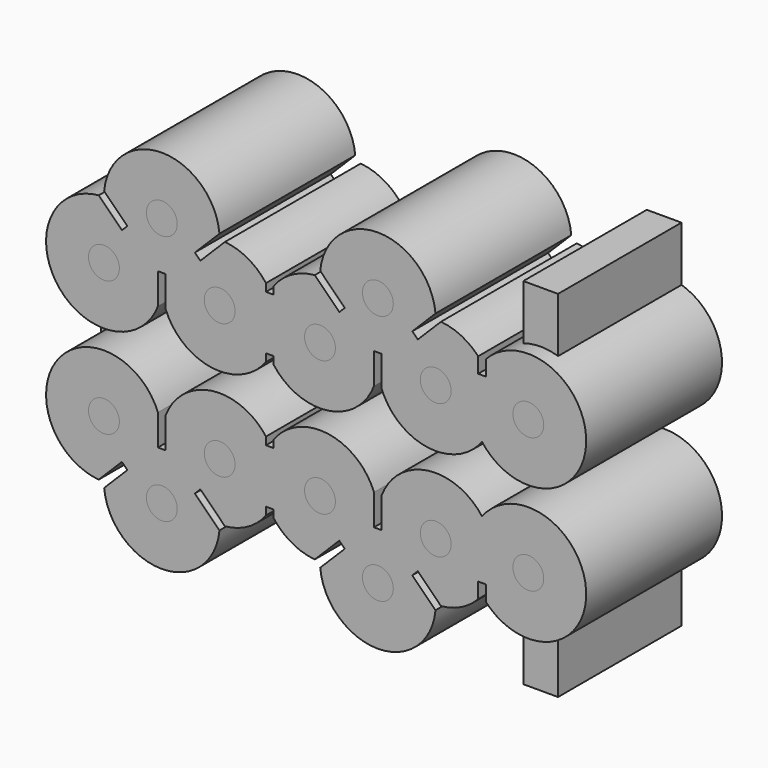
from build123d import *

# Parameters (mm, degrees)
F2_DEPTH  = 22
F3_R      = 2
F4_DEPTH  = 21
F5_R      = 4
F6_DEPTH  = 1
F7_R      = 2
F8_DEPTH  = 21
F9_R      = 4
F10_DEPTH = 1
F11_R     = 2
F12_DEPTH = 21
F13_R     = 2
F14_DEPTH = 21
F15_R     = 4
F16_DEPTH = 1
F17_R     = 2
F18_DEPTH = 21
F19_R     = 4
F20_DEPTH = 1
F21_R     = 2
F22_DEPTH = 21
F23_R     = 4
F23_R_2   = 2
F24_DEPTH = 1
F25_R     = 2
F26_DEPTH = 21
F27_R     = 4
F27_R_2   = 2
F28_DEPTH = 1
F29_R     = 2
F30_DEPTH = 21
F31_R     = 4
F31_R_2   = 2
F32_DEPTH = 1
F33_R     = 2
F34_DEPTH = 20
F35_R     = 2
F36_DEPTH = 20
F37_R     = 2
F38_DEPTH = 20
F39_DEPTH = 20
F40_DEPTH = 20
F41_DEPTH = 20
F42_DEPTH = 20
F43_R     = 4
F44_DEPTH = 1
F45_R     = 4
F45_R_2   = 2
F46_DEPTH = 1
F47_R     = 4
F47_R_2   = 2
F48_DEPTH = 1
F49_R     = 4
F49_R_2   = 2
F50_DEPTH = 1
F51_R     = 4
F51_R_2   = 2
F52_DEPTH = 1
F53_R     = 4
F53_R_2   = 2
F54_DEPTH = 1
F55_R     = 4
F56_DEPTH = 1
F57_W     = 5
F57_H     = 10
F58_DEPTH = 15
F59_W     = 4.5
F59_H     = 8
F60_DEPTH = 20


with BuildPart() as f2:
    # F1 (on face) → F2 (new body)
    with BuildSketch(Plane.XZ):
        with BuildLine():
            Line((13.035779, -13.921328), (10.030575, -16.926531))
            ThreePointArc((10.030575, -16.926531), (17.5, -23.75), (24.969425, -16.926531))
            Line((24.969425, -16.926531), (21.787444, -13.744551))
            Line((21.787444, -13.744551), (22.494551, -13.037444))
            Line((22.494551, -13.037444), (25.676531, -16.219425))
            ThreePointArc((25.676531, -16.219425), (28.653545, -15.299932), (31, -13.25))
            Line((31, -13.25), (31, -12.25))
            Line((31, -12.25), (32, -12.25))
            Line((32, -12.25), (32, -13.25))
            ThreePointArc((32, -13.25), (34.346455, -15.299932), (37.323469, -16.219425))
            Line((37.323469, -16.219425), (40.505449, -13.037444))
            Line((40.505449, -13.037444), (41.212556, -13.744551))
            Line((41.212556, -13.744551), (38.030575, -16.926531))
            ThreePointArc((38.030575, -16.926531), (45.5, -23.75), (52.969425, -16.926531))
            Line((52.969425, -16.926531), (49.964221, -13.921328))
            Line((49.964221, -13.921328), (50.671328, -13.214221))
            Line((50.671328, -13.214221), (53.676531, -16.219425))
            ThreePointArc((53.676531, -16.219425), (56.307883, -15.481115), (58.5, -13.84902))
            Line((58.5, -13.84902), (58.5, -11.84902))
            Line((58.5, -11.84902), (59.5, -11.84902))
            Line((59.5, -11.84902), (59.5, -13.84902))
            ThreePointArc((59.5, -13.84902), (72.489846, -8.359864), (59, -4.25))
            ThreePointArc((59, -4.25), (51.967193, -1.321453), (46, -6.057418))
            Line((46, -6.057418), (46, -10.057418))
            Line((46, -10.057418), (45, -10.057418))
            Line((45, -10.057418), (45, -6.057418))
            ThreePointArc((45, -6.057418), (39.032807, -1.321453), (32, -4.25))
            Line((32, -4.25), (32, -5.25))
            Line((32, -5.25), (31, -5.25))
            Line((31, -5.25), (31, -4.25))
            ThreePointArc((31, -4.25), (23.967193, -1.321453), (18, -6.057418))
            Line((18, -6.057418), (18, -10.057418))
            Line((18, -10.057418), (17, -10.057418))
            Line((17, -10.057418), (17, -6.057418))
            ThreePointArc((17, -6.057418), (4.01559, -4.229288), (9.323469, -16.219425))
            Line((9.323469, -16.219425), (12.328672, -13.214221))
            Line((12.328672, -13.214221), (13.035779, -13.921328))
        make_face()
        with BuildLine():
            Line((32, 12.25), (31, 12.25))
            Line((31, 12.25), (31, 13.25))
            ThreePointArc((31, 13.25), (28.653545, 15.299932), (25.676531, 16.219425))
            Line((25.676531, 16.219425), (22.494551, 13.037444))
            Line((22.494551, 13.037444), (21.787444, 13.744551))
            Line((21.787444, 13.744551), (24.969425, 16.926531))
            ThreePointArc((24.969425, 16.926531), (17.5, 23.75), (10.030575, 16.926531))
            Line((10.030575, 16.926531), (13.035779, 13.921328))
            Line((13.035779, 13.921328), (12.328672, 13.214221))
            Line((12.328672, 13.214221), (9.323469, 16.219425))
            ThreePointArc((9.323469, 16.219425), (4.01559, 4.229288), (17, 6.057418))
            Line((17, 6.057418), (17, 10.057418))
            Line((17, 10.057418), (18, 10.057418))
            Line((18, 10.057418), (18, 6.057418))
            ThreePointArc((18, 6.057418), (23.967193, 1.321453), (31, 4.25))
            Line((31, 4.25), (31, 5.25))
            Line((31, 5.25), (32, 5.25))
            Line((32, 5.25), (32, 4.25))
            ThreePointArc((32, 4.25), (39.032807, 1.321453), (45, 6.057418))
            Line((45, 6.057418), (45, 10.057418))
            Line((45, 10.057418), (46, 10.057418))
            Line((46, 10.057418), (46, 6.057418))
            ThreePointArc((46, 6.057418), (51.967193, 1.321453), (59, 4.25))
            ThreePointArc((59, 4.25), (72.489846, 8.359864), (59.5, 13.84902))
            Line((59.5, 13.84902), (59.5, 11.84902))
            Line((59.5, 11.84902), (58.5, 11.84902))
            Line((58.5, 11.84902), (58.5, 13.84902))
            ThreePointArc((58.5, 13.84902), (56.307883, 15.481115), (53.676531, 16.219425))
            Line((53.676531, 16.219425), (50.671328, 13.214221))
            Line((50.671328, 13.214221), (49.964221, 13.921328))
            Line((49.964221, 13.921328), (52.969425, 16.926531))
            ThreePointArc((52.969425, 16.926531), (45.5, 23.75), (38.030575, 16.926531))
            Line((38.030575, 16.926531), (41.212556, 13.744551))
            Line((41.212556, 13.744551), (40.505449, 13.037444))
            Line((40.505449, 13.037444), (37.323469, 16.219425))
            ThreePointArc((37.323469, 16.219425), (34.346455, 15.299932), (32, 13.25))
            Line((32, 13.25), (32, 12.25))
        make_face()
    extrude(amount=F2_DEPTH)

    # F11 (on face) → F12 (join)
    with BuildSketch(Plane.XZ.offset(22)):
        with Locations((25, -8.75)):
            Circle(F11_R)
    extrude(amount=-F12_DEPTH)


with BuildPart() as f4:
    # F3 (on face) → F4 (new body)
    with BuildSketch(Plane.XZ.offset(22)):
        with Locations((10, -8.75)):
            Circle(F3_R)
    extrude(amount=-F4_DEPTH)

    # F5 (on face) → F6 (join)
    with BuildSketch(Plane(origin=(0, -1, 0), x_dir=(-1, 0, 0), z_dir=(0, 1, 0))):
        with Locations((-10, -8.75)):
            Circle(F5_R)
    extrude(amount=-F6_DEPTH)


with BuildPart() as f8:
    # F7 (on face) → F8 (new body)
    with BuildSketch(Plane.XZ.offset(22)):
        with Locations((17.5, -16.25)):
            Circle(F7_R)
    extrude(amount=-F8_DEPTH)

    # F9 (on face) → F10 (join)
    with BuildSketch(Plane(origin=(0, -1, 0), x_dir=(-1, 0, 0), z_dir=(0, 1, 0))):
        with Locations((-17.5, -16.25)):
            Circle(F9_R)
    extrude(amount=-F10_DEPTH)


with BuildPart() as f14:
    # F13 (on face) → F14 (new body)
    with BuildSketch(Plane.XZ.offset(22)):
        with Locations((25, -8.75)):
            Circle(F13_R)
    extrude(amount=-F14_DEPTH)

    # F15 (on face) → F16 (join)
    with BuildSketch(Plane(origin=(0, -1, 0), x_dir=(-1, 0, 0), z_dir=(0, 1, 0))):
        with Locations((-25, -8.75)):
            Circle(F15_R)
    extrude(amount=-F16_DEPTH)


with BuildPart() as f18:
    # F17 (on face) → F18 (new body)
    with BuildSketch(Plane.XZ.offset(22)):
        with Locations((38, -8.75)):
            Circle(F17_R)
    extrude(amount=-F18_DEPTH)

    # F19 (on face) → F20 (join)
    with BuildSketch(Plane(origin=(0, -1, 0), x_dir=(-1, 0, 0), z_dir=(0, 1, 0))):
        with Locations((-38, -8.75)):
            Circle(F19_R)
    extrude(amount=-F20_DEPTH)


with BuildPart() as f22:
    # F21 (on face) → F22 (new body)
    with BuildSketch(Plane.XZ.offset(22)):
        with Locations((45.5, -16.25)):
            Circle(F21_R)
    extrude(amount=-F22_DEPTH)

    # F23 (on face) → F24 (join)
    with BuildSketch(Plane(origin=(0, -1, 0), x_dir=(-1, 0, 0), z_dir=(0, 1, 0))):
        with Locations((-45.5, -16.25)):
            Circle(F23_R)
        with Locations((-45.5, -16.25)):
            Circle(F23_R_2, mode=Mode.SUBTRACT)
    extrude(amount=-F24_DEPTH)


with BuildPart() as f26:
    # F25 (on face) → F26 (new body)
    with BuildSketch(Plane.XZ.offset(22)):
        with Locations((53, -8.75)):
            Circle(F25_R)
    extrude(amount=-F26_DEPTH)

    # F27 (on face) → F28 (join)
    with BuildSketch(Plane(origin=(0, -1, 0), x_dir=(-1, 0, 0), z_dir=(0, 1, 0))):
        with Locations((-53, -8.75)):
            Circle(F27_R)
        with Locations((-53, -8.75)):
            Circle(F27_R_2, mode=Mode.SUBTRACT)
    extrude(amount=-F28_DEPTH)


with BuildPart() as f30:
    # F29 (on face) → F30 (new body)
    with BuildSketch(Plane.XZ.offset(22)):
        with Locations((65, -8.75)):
            Circle(F29_R)
    extrude(amount=-F30_DEPTH)

    # F31 (on face) → F32 (join)
    with BuildSketch(Plane(origin=(0, -1, 0), x_dir=(-1, 0, 0), z_dir=(0, 1, 0))):
        with Locations((-65, -8.75)):
            Circle(F31_R)
        with Locations((-65, -8.75)):
            Circle(F31_R_2, mode=Mode.SUBTRACT)
    extrude(amount=-F32_DEPTH)


with BuildPart() as f34:
    # F33 (on face) → F34 (new body)
    with BuildSketch(Plane.XZ.offset(22)):
        with Locations((10, 8.75)):
            Circle(F33_R)
    extrude(amount=-F34_DEPTH)

    # F43 (on face) → F44 (join)
    with BuildSketch(Plane(origin=(0, -2, 0), x_dir=(-1, 0, 0), z_dir=(0, 1, 0))):
        with Locations((-10, 8.75)):
            Circle(F43_R)
    extrude(amount=-F44_DEPTH)


with BuildPart() as f36:
    # F35 (on face) → F36 (new body)
    with BuildSketch(Plane.XZ.offset(22)):
        with Locations((17.5, 16.25)):
            Circle(F35_R)
    extrude(amount=-F36_DEPTH)

    # F45 (on face) → F46 (join)
    with BuildSketch(Plane(origin=(0, -2, 0), x_dir=(-1, 0, 0), z_dir=(0, 1, 0))):
        with Locations((-17.5, 16.25)):
            Circle(F45_R)
        with Locations((-17.5, 16.25)):
            Circle(F45_R_2, mode=Mode.SUBTRACT)
    extrude(amount=-F46_DEPTH)


with BuildPart() as f38:
    # F37 (on face) → F38 (new body)
    with BuildSketch(Plane.XZ.offset(22)):
        with Locations((25, 8.75)):
            Circle(F37_R)
    extrude(amount=-F38_DEPTH)

    # F47 (on face) → F48 (join)
    with BuildSketch(Plane(origin=(0, -2, 0), x_dir=(-1, 0, 0), z_dir=(0, 1, 0))):
        with Locations((-25, 8.75)):
            Circle(F47_R)
        with Locations((-25, 8.75)):
            Circle(F47_R_2, mode=Mode.SUBTRACT)
    extrude(amount=-F48_DEPTH)


with BuildPart() as f39:
    # F37 (on face) → F39 (new body)
    with BuildSketch(Plane.XZ.offset(22)):
        with Locations((38, 8.75)):
            Circle(F37_R)
    extrude(amount=-F39_DEPTH)

    # F49 (on face) → F50 (join)
    with BuildSketch(Plane(origin=(0, -2, 0), x_dir=(-1, 0, 0), z_dir=(0, 1, 0))):
        with Locations((-38, 8.75)):
            Circle(F49_R)
        with Locations((-38, 8.75)):
            Circle(F49_R_2, mode=Mode.SUBTRACT)
    extrude(amount=-F50_DEPTH)


with BuildPart() as f40:
    # F37 (on face) → F40 (new body)
    with BuildSketch(Plane.XZ.offset(22)):
        with Locations((45.5, 16.25)):
            Circle(F37_R)
    extrude(amount=-F40_DEPTH)

    # F51 (on face) → F52 (join)
    with BuildSketch(Plane(origin=(0, -2, 0), x_dir=(-1, 0, 0), z_dir=(0, 1, 0))):
        with Locations((-45.5, 16.25)):
            Circle(F51_R)
        with Locations((-45.5, 16.25)):
            Circle(F51_R_2, mode=Mode.SUBTRACT)
    extrude(amount=-F52_DEPTH)


with BuildPart() as f41:
    # F37 (on face) → F41 (new body)
    with BuildSketch(Plane.XZ.offset(22)):
        with Locations((53, 8.75)):
            Circle(F37_R)
    extrude(amount=-F41_DEPTH)

    # F53 (on face) → F54 (join)
    with BuildSketch(Plane(origin=(0, -2, 0), x_dir=(-1, 0, 0), z_dir=(0, 1, 0))):
        with Locations((-53, 8.75)):
            Circle(F53_R)
        with Locations((-53, 8.75)):
            Circle(F53_R_2, mode=Mode.SUBTRACT)
    extrude(amount=-F54_DEPTH)


with BuildPart() as f42:
    # F37 (on face) → F42 (new body)
    with BuildSketch(Plane.XZ.offset(22)):
        with Locations((65, 8.75)):
            Circle(F37_R)
    extrude(amount=-F42_DEPTH)

    # F55 (on face) → F56 (join)
    with BuildSketch(Plane(origin=(0, -2, 0), x_dir=(-1, 0, 0), z_dir=(0, 1, 0))):
        with Locations((-65, 8.75)):
            Circle(F55_R)
    extrude(amount=-F56_DEPTH)


with BuildPart() as f58:
    # F57 (on face) → F58 (new body)
    with BuildSketch(Plane(origin=(0, 0, 0), x_dir=(-1, 0, 0), z_dir=(0, 1, 0))):
        with Locations((-6.5, 0)):
            Rectangle(F57_W, F57_H)
    extrude(amount=-F58_DEPTH)


with BuildPart() as f60:
    # F59 (on face) → F60 (new body)
    with BuildSketch(Plane(origin=(0, 0, 0), x_dir=(-1, 0, 0), z_dir=(0, 1, 0))):
        with Locations((-65, 19)):
            Rectangle(F59_W, F59_H)
        with Locations((-65, -19)):
            Rectangle(F59_W, F59_H)
    extrude(amount=-F60_DEPTH)


solid = Compound([f2.part, f4.part, f8.part, f14.part, f18.part, f22.part, f26.part, f30.part, f34.part, f36.part, f38.part, f39.part, f40.part, f41.part, f42.part, f58.part, f60.part])
